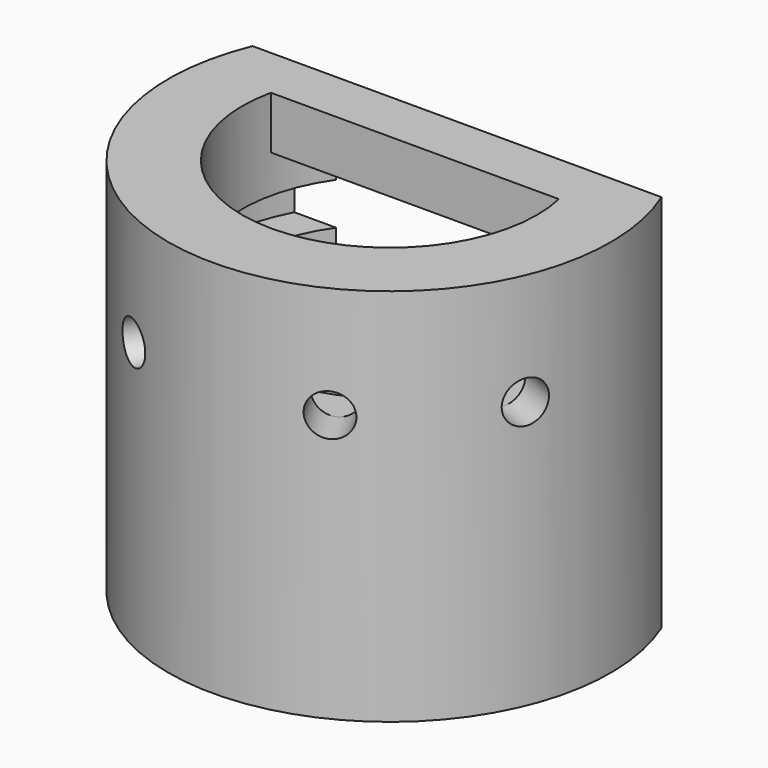
from build123d import *

# Parameters (mm, degrees)
CYLINDER006_R     = 5.25
CYLINDER006_DEPTH = 9
BOX_W             = 10
BOX_H             = 4
BOX_DEPTH         = 10
CYLINDER007_R     = 3.5
CYLINDER007_DEPTH = 6.5
BOX001_W          = 7.8
BOX001_H          = 1.25
BOX001_DEPTH      = 1.25
CYLINDER008_R     = 0.5
CYLINDER008_DEPTH = 4
CYLINDER009_R     = 0.5
CYLINDER009_DEPTH = 4
CYLINDER012_R     = 0.5
CYLINDER012_DEPTH = 3.5
CYLINDER013_R     = 0.5
CYLINDER013_DEPTH = 4
CYLINDER014_R     = 0.5
CYLINDER014_DEPTH = 4
CYLINDER015_R     = 0.5
CYLINDER015_DEPTH = 3.5
CYLINDER020_R     = 1.5
CYLINDER020_DEPTH = 3
CYLINDER021_R     = 0.45
CYLINDER021_DEPTH = 3
BOX002_W          = 3.2
BOX002_H          = 0.9
BOX002_DEPTH      = 1
CYLINDER022_R     = 0.5
CYLINDER022_DEPTH = 3
BOX003_W          = 1
BOX003_H          = 3
BOX003_DEPTH      = 1
CYLINDER023_R     = 4.35
CYLINDER023_DEPTH = 1


with BuildPart() as part:
    # Cylinder006 → Cylinder006 (join)
    with BuildSketch(Plane.XY.offset(-1.25)):
        Circle(CYLINDER006_R)
    extrude(amount=CYLINDER006_DEPTH)

    # Box → Box (cut)
    with BuildSketch(Plane(origin=(-5, 2, -1.5), x_dir=(1, 0, 0), z_dir=(0, 0, 1))):
        with Locations((5, 2)):
            Rectangle(BOX_W, BOX_H)
    extrude(amount=BOX_DEPTH, mode=Mode.SUBTRACT)

    # Cylinder007 → Cylinder007 (cut)
    with BuildSketch(Plane.XY.offset(1.5)):
        Circle(CYLINDER007_R)
    extrude(amount=CYLINDER007_DEPTH, mode=Mode.SUBTRACT)

    # Box001 → Box001 (join)
    with BuildSketch(Plane(origin=(-3.9, 0.75, 6.5), x_dir=(1, 0, 0), z_dir=(0, 0, 1))):
        with Locations((3.9, 0.625)):
            Rectangle(BOX001_W, BOX001_H)
    extrude(amount=BOX001_DEPTH)

    # Cylinder008 → Cylinder008 (cut)
    with BuildSketch(Plane(origin=(-1, 0, -2), x_dir=(1, 0, 0), z_dir=(0, 0, 1))):
        Circle(CYLINDER008_R)
    extrude(amount=CYLINDER008_DEPTH, mode=Mode.SUBTRACT)

    # Cylinder009 → Cylinder009 (cut)
    with BuildSketch(Plane(origin=(1, 0, -2), x_dir=(1, 0, 0), z_dir=(0, 0, 1))):
        Circle(CYLINDER009_R)
    extrude(amount=CYLINDER009_DEPTH, mode=Mode.SUBTRACT)

    # Cylinder012 → Cylinder012 (cut)
    with BuildSketch(Plane(origin=(-2.4, -1, 5.1), x_dir=(0.382683, -0.92388, 0), z_dir=(-0.92388, -0.382683, 0))):
        Circle(CYLINDER012_R)
    extrude(amount=CYLINDER012_DEPTH, mode=Mode.SUBTRACT)

    # Cylinder013 → Cylinder013 (cut)
    with BuildSketch(Plane(origin=(-0.75, -2, 5.1), x_dir=(0.861629, -0.507538, 0), z_dir=(-0.507538, -0.861629, 0))):
        Circle(CYLINDER013_R)
    extrude(amount=CYLINDER013_DEPTH, mode=Mode.SUBTRACT)

    # Cylinder014 → Cylinder014 (cut)
    with BuildSketch(Plane(origin=(0.75, -2, 5.1), x_dir=(0.861629, 0.507538, 0), z_dir=(0.507538, -0.861629, 0))):
        Circle(CYLINDER014_R)
    extrude(amount=CYLINDER014_DEPTH, mode=Mode.SUBTRACT)

    # Cylinder015 → Cylinder015 (cut)
    with BuildSketch(Plane(origin=(2.4, -1, 5.1), x_dir=(0.382683, 0.92388, 0), z_dir=(0.92388, -0.382683, 0))):
        Circle(CYLINDER015_R)
    extrude(amount=CYLINDER015_DEPTH, mode=Mode.SUBTRACT)

    # Cylinder020 → Cylinder020 (cut)
    with BuildSketch(Plane.XY):
        Circle(CYLINDER020_R)
    extrude(amount=CYLINDER020_DEPTH, mode=Mode.SUBTRACT)

    # Cylinder021 → Cylinder021 (cut)
    with BuildSketch(Plane(origin=(1, 0, -0.75), x_dir=(0, 0, -1), z_dir=(1, 0, 0))):
        Circle(CYLINDER021_R)
    extrude(amount=CYLINDER021_DEPTH, mode=Mode.SUBTRACT)

    # Box002 → Box002 (cut)
    with BuildSketch(Plane(origin=(0.8, -0.45, -1.73), x_dir=(1, 0, 0), z_dir=(0, 0, 1))):
        with Locations((1.6, 0.45)):
            Rectangle(BOX002_W, BOX002_H)
    extrude(amount=BOX002_DEPTH, mode=Mode.SUBTRACT)

    # Cylinder022 → Cylinder022 (join)
    with BuildSketch(Plane(origin=(0, 1.5, 0.45), x_dir=(1, 0, 0), z_dir=(0, -1, 0))):
        Circle(CYLINDER022_R)
    extrude(amount=CYLINDER022_DEPTH)

    # Box003 → Box003 (join)
    with BuildSketch(Plane(origin=(-0.5, -1.5, -0.55), x_dir=(1, 0, 0), z_dir=(0, 0, 1))):
        with Locations((0.5, 1.5)):
            Rectangle(BOX003_W, BOX003_H)
    extrude(amount=BOX003_DEPTH)

    # Cylinder023 → Cylinder023 (cut)
    with BuildSketch(Plane.XY.offset(4.6)):
        Circle(CYLINDER023_R)
    extrude(amount=CYLINDER023_DEPTH, mode=Mode.SUBTRACT)


with BuildPart() as part_1:
    # Body001 placement: moved
    add(part.part.moved(Location((0, 0, 1.24))))


solid = part_1.part
